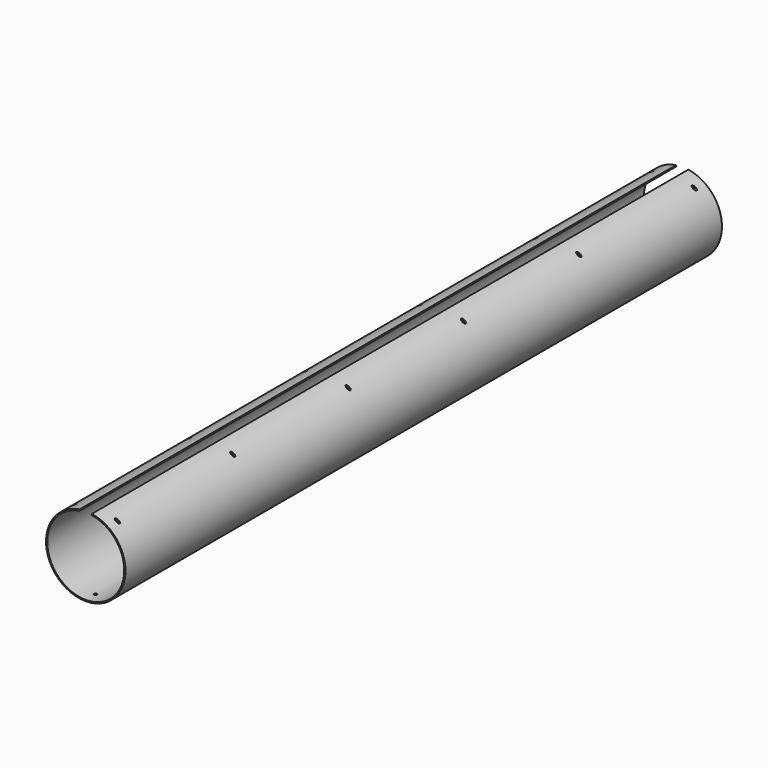
from build123d import *

# Parameters (mm, degrees)
F1_DEPTH = 1549.4
F2_R     = 3.175
F3_DEPTH = 127
F4_R     = 3.175
F5_DEPTH = 127


with BuildPart() as f1:
    # F0 (on Front) → F1 (new body)
    with BuildSketch(Plane.XZ):
        with BuildLine():
            Line((-12.309231, 79.057466), (-12.7, 81.567227))
            ThreePointArc((-12.7, 81.567227), (0, -82.55), (12.7, 81.567227))
            Line((12.7, 81.567227), (12.309231, 79.057466))
            ThreePointArc((12.309231, 79.057466), (0, -80.01), (-12.309231, 79.057466))
        make_face()
    extrude(amount=F1_DEPTH)

    # F2 (on Top) → F3 (cut, symmetric)
    with BuildSketch(Plane.XY):
        with Locations((0, -25.4)):
            Circle(F2_R)
        with Locations((0, -1524)):
            Circle(F2_R)
    extrude(amount=F3_DEPTH, both=True, mode=Mode.SUBTRACT)

    # F4 (on Right) → F5 (cut, symmetric)
    with BuildSketch(Plane.YZ):
        with Locations((-25.4, 68.867227)):
            Circle(F4_R)
        with Locations((-325.12, 68.867227)):
            Circle(F4_R)
        with Locations((-624.84, 68.867227)):
            Circle(F4_R)
        with Locations((-924.56, 68.867227)):
            Circle(F4_R)
        with Locations((-1224.28, 68.867227)):
            Circle(F4_R)
        with Locations((-1524, 68.867227)):
            Circle(F4_R)
    extrude(amount=F5_DEPTH, both=True, mode=Mode.SUBTRACT)


solid = f1.part
